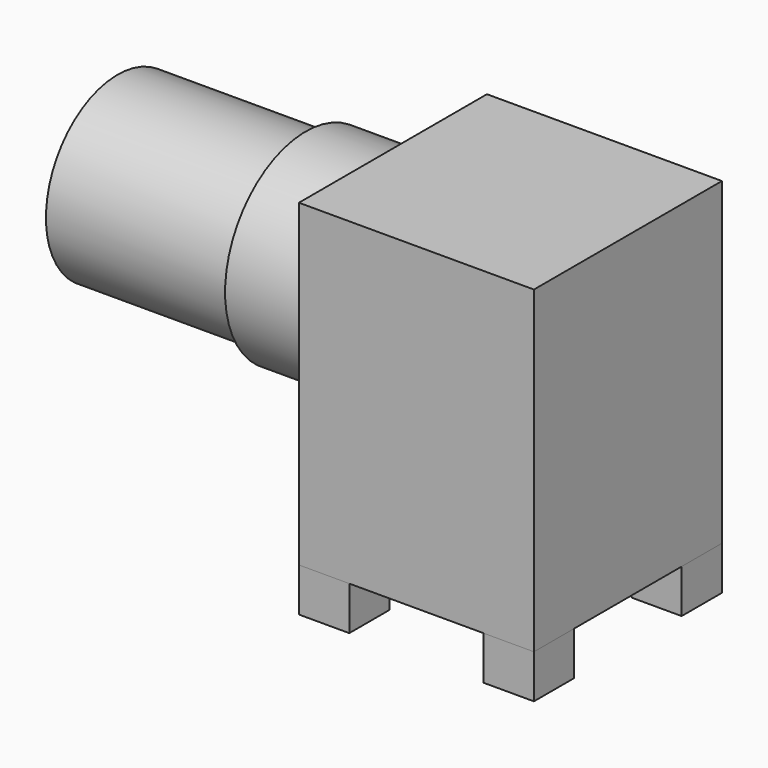
from build123d import *

# Parameters (mm, degrees)
F0_W     = 1.5
F0_H     = 1.5
F0_R     = 0.62
F1_DEPTH = 1.3
F3_W     = 7
F3_H     = 7
F4_DEPTH = 9.5
F5_R     = 3
F6_DEPTH = 2.6
F8_R     = 2.67
F9_DEPTH = 5.6


with BuildPart() as f1:
    # F0 (on Top) → F1 (new body)
    with BuildSketch(Plane.XY):
        with Locations((0.75, 6.25)):
            Rectangle(F0_W, F0_H)
        with Locations((6.25, 6.25)):
            Rectangle(F0_W, F0_H)
        with Locations((6.25, 0.75)):
            Rectangle(F0_W, F0_H)
        with Locations((0.75, 0.75)):
            Rectangle(F0_W, F0_H)
        with Locations((3.5, 3.5)):
            Circle(F0_R)
    extrude(amount=F1_DEPTH)


with BuildPart() as f4:
    # F3 (on offset) → F4 (new body)
    with BuildSketch(Plane.XY.offset(1.3)):
        with Locations((3.5, 3.5)):
            Rectangle(F3_W, F3_H)
    extrude(amount=F4_DEPTH)

    # F5 (on Right) → F6 (join)
    with BuildSketch(Plane.YZ):
        with Locations((3.5, 7.4)):
            Circle(F5_R)
    extrude(amount=-F6_DEPTH)

    # F8 (on offset) → F9 (join)
    with BuildSketch(Plane.YZ.offset(-2.6)):
        with Locations((3.5, 7.4)):
            Circle(F8_R)
    extrude(amount=-F9_DEPTH)


solid = Compound([f1.part, f4.part])
